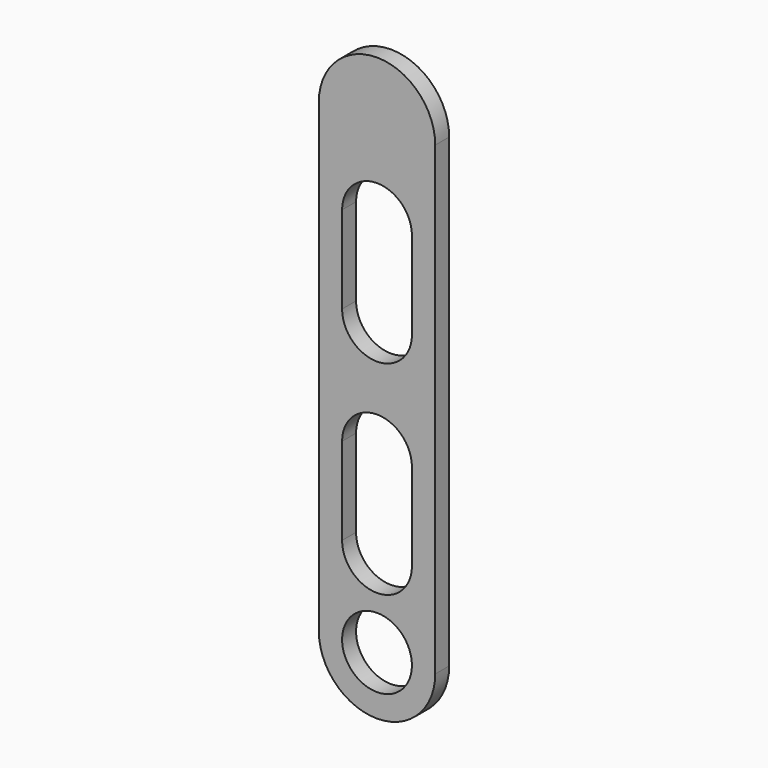
from build123d import *

# Parameters (mm, degrees)
F0_R     = 6
F1_DEPTH = 3


with BuildPart() as f1:
    # F0 (on Front) → F1 (new body)
    with BuildSketch(Plane.XZ):
        with BuildLine():
            ThreePointArc((-10, -40), (0, -50), (10, -40))
            Line((10, -40), (10, 40))
            ThreePointArc((10, 40), (0, 50), (-10, 40))
            Line((-10, 40), (-10, -40))
        make_face()
        with Locations((0, -40)):
            Circle(F0_R, mode=Mode.SUBTRACT)
        with BuildLine():
            Line((6, -10), (6, -25))
            ThreePointArc((6, -25), (0, -31), (-6, -25))
            Line((-6, -25), (-6, -10))
            ThreePointArc((-6, -10), (0, -4), (6, -10))
        make_face(mode=Mode.SUBTRACT)
        with BuildLine():
            Line((6, 25), (6, 10))
            ThreePointArc((6, 10), (0, 4), (-6, 10))
            Line((-6, 10), (-6, 25))
            ThreePointArc((-6, 25), (0, 31), (6, 25))
        make_face(mode=Mode.SUBTRACT)
    extrude(amount=F1_DEPTH)


solid = f1.part
